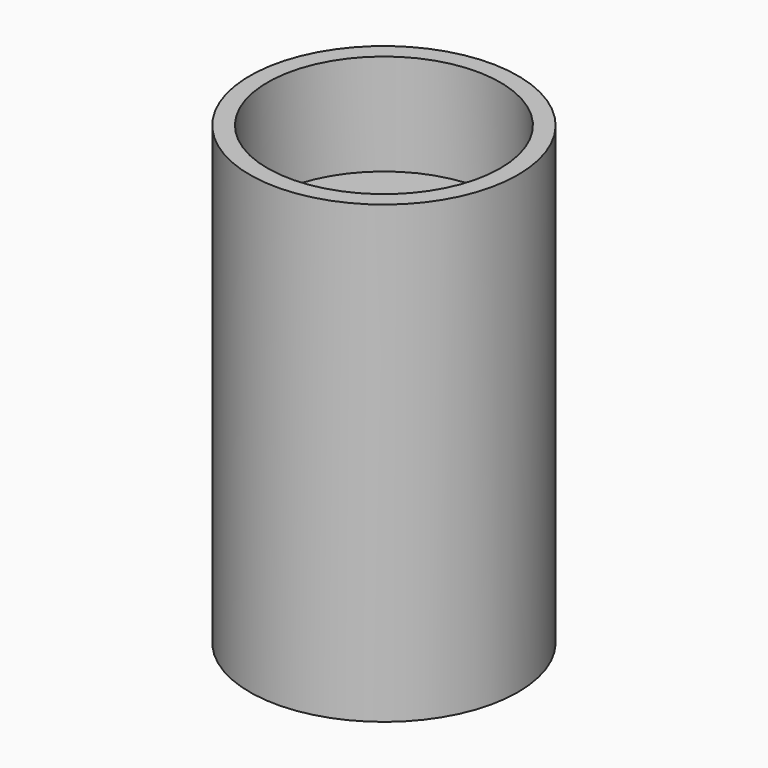
from build123d import *

# Parameters (mm, degrees)
F0_R          = 16.8275
F1_DEPTH      = 25.4
F1_DEPTH_BACK = 31.75
F3_R          = 14.605
F4_DEPTH      = 12.7
F6_W          = 26.67
F6_H          = 17.78
F7_DEPTH      = 25.4


with BuildPart() as f1:
    # F0 (on Top) → F1 (new body, two sides)
    with BuildSketch(Plane.XY) as f1_sk:
        Circle(F0_R)
    extrude(amount=F1_DEPTH)
    extrude(f1_sk.sketch, amount=-F1_DEPTH_BACK)

    # F3 (on offset) → F4 (cut)
    with BuildSketch(Plane.XY.offset(25.4)):
        Circle(F3_R)
    extrude(amount=-F4_DEPTH, mode=Mode.SUBTRACT)

    # F6 (on offset) → F7 (cut)
    with BuildSketch(Plane(origin=(0, 0, -31.75), x_dir=(1, 0, 0), z_dir=(0, 0, -1))):
        Rectangle(F6_W, F6_H)
    extrude(amount=-F7_DEPTH, mode=Mode.SUBTRACT)


solid = f1.part
